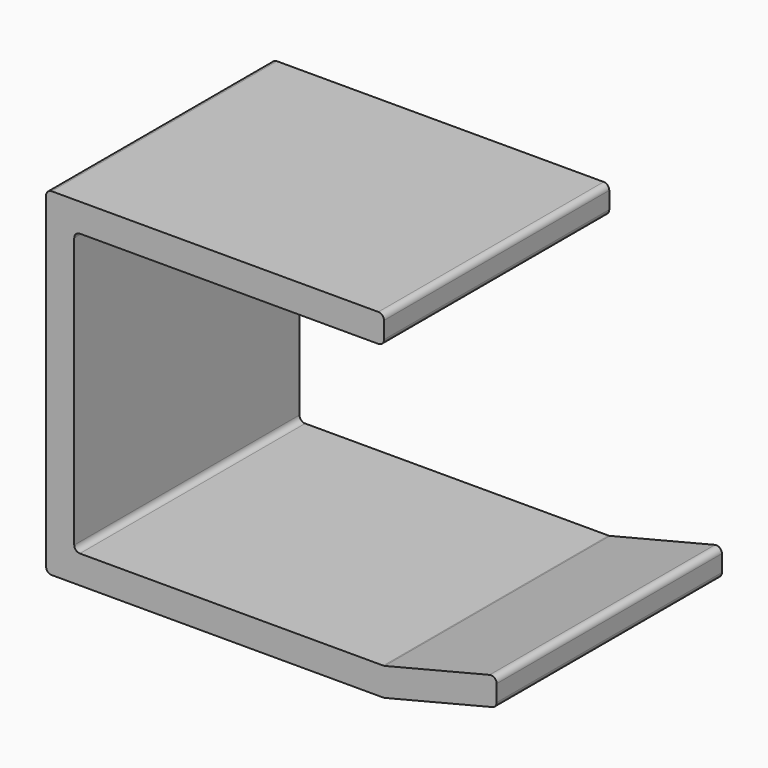
from build123d import *

# Parameters (mm, degrees)
PAD_DEPTH = 50
FILLET_R  = 1


with BuildPart() as part:
    # Sketch → Pad (new body)
    with BuildSketch(Plane.XZ):
        Polygon((0, 0), (0, 60), (60, 60), (60, 55), (5, 55), (5, 5), (60, 5), (80, 10), (80, 5), (60, 0), align=None)
    extrude(amount=PAD_DEPTH)

    # Fillet
    fillet_edges = [part.edges().sort_by_distance(p)[0] for p in [
        (0, -25, 0),
        (60, -25, 0),
        (80, -25, 5),
        (80, -25, 10),
        (60, -25, 55),
        (60, -25, 60),
        (0, -25, 60),
        (60, -25, 5),
        (5, -25, 5),
        (5, -25, 55),
    ]]
    fillet(fillet_edges, radius=FILLET_R)


solid = part.part
